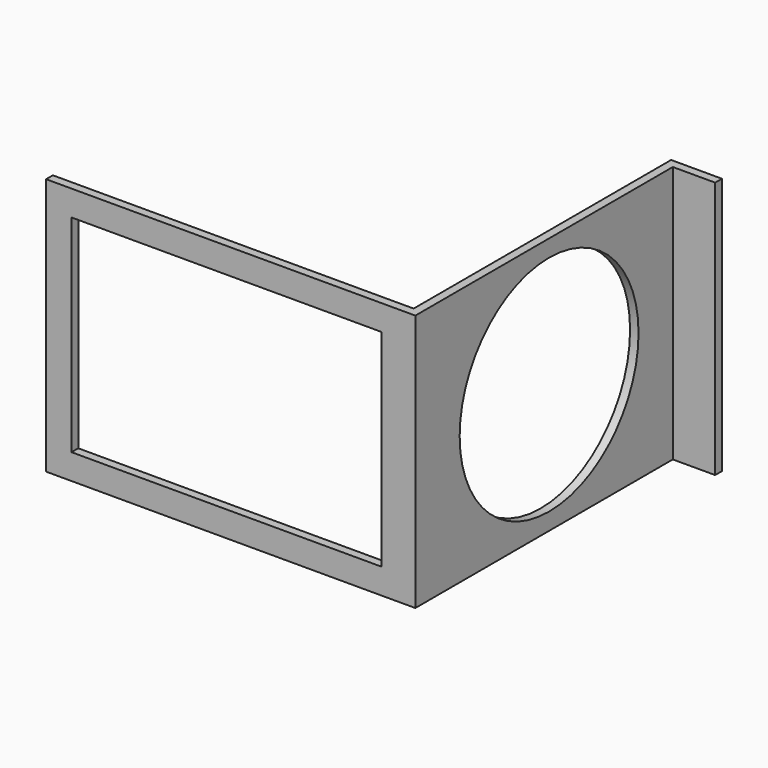
from build123d import *

# Parameters (mm, degrees)
F0_W     = 213
F0_H     = 152
F0_W_2   = 183
F0_H_2   = 122
F1_DEPTH = 5
F2_W     = 185
F2_H     = 152
F2_W_2   = 5
F3_DEPTH = 5
F4_R     = 66
F5_DEPTH = 25
F6_W     = 25
F6_H     = 152
F6_W_2   = 5
F7_DEPTH = 5


with BuildPart() as f1:
    # F0 (on Front) → F1 (new body)
    with BuildSketch(Plane.XZ):
        with Locations((-0.431097, 6.392034)):
            Rectangle(F0_W, F0_H)
        with Locations((-0.431097, 6.392034)):
            Rectangle(F0_W_2, F0_H_2, mode=Mode.SUBTRACT)
    extrude(amount=F1_DEPTH)

    # F2 (on face) → F3 (join)
    with BuildSketch(Plane.YZ.offset(106.068903)):
        with Locations((92.5, 6.392034)):
            Rectangle(F2_W, F2_H)
        with Locations((-2.5, 6.392034)):
            Rectangle(F2_W_2, F2_H)
    extrude(amount=F3_DEPTH)

    # F4 (on face) → F5 (cut)
    with BuildSketch(Plane.YZ.offset(111.068903)):
        with Locations((93.713939, 6.392034)):
            Circle(F4_R)
    extrude(amount=-F5_DEPTH, mode=Mode.SUBTRACT)

    # F6 (on face) → F7 (join)
    with BuildSketch(Plane(origin=(0, 185, 0), x_dir=(-1, 0, 0), z_dir=(0, 1, 0))):
        with Locations((-123.568903, 6.392034)):
            Rectangle(F6_W, F6_H)
        with Locations((-108.568903, 6.392034)):
            Rectangle(F6_W_2, F6_H)
    extrude(amount=F7_DEPTH)


solid = f1.part
